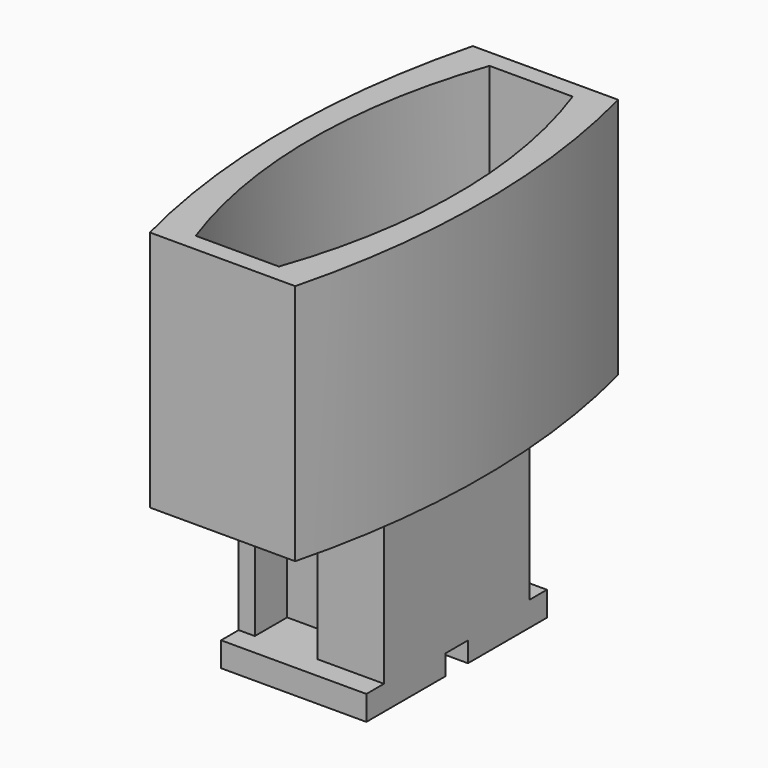
from build123d import *

# Parameters (mm, degrees)
PAD_DEPTH            = 30
POCKET_DEPTH         = 25
SKETCH004_W          = 18
SKETCH004_H          = 22.5
PAD001_DEPTH         = 19
SKETCH003_W          = 7.75
SKETCH003_H          = 11.25
POCKET002_DEPTH      = 5
POCKET002_DEPTH_BACK = 24
SKETCH005_W          = 18
SKETCH005_H          = 3.05
PAD002_DEPTH         = 2.73
PAD002_DEPTH_BACK    = 25.23
SKETCH006_W          = 3.5
SKETCH006_H          = 2.5
POCKET003_DEPTH      = 18
SKETCH002_R          = 4
POCKET001_DEPTH      = 35
POCKET001_DEPTH_BACK = 5


with BuildPart() as part:
    # Sketch → Pad (new body)
    with BuildSketch(Plane.XY):
        with BuildLine():
            Line((0, 0), (18, 0))
            ThreePointArc((18, 0), (21.175416, 25), (18, 50))
            Line((18, 50), (0, 50))
            ThreePointArc((0, 50), (-3.175416, 25), (0, 0))
        make_face()
    extrude(amount=-PAD_DEPTH)

    # Sketch001 → Pocket (cut)
    with BuildSketch(Plane.XY):
        with BuildLine():
            Line((3.9, 2.225), (14.2, 2.225))
            ThreePointArc((14.2, 2.225), (18.099995, 25.004308), (14.15, 47.775))
            Line((14.15, 47.775), (3.85, 47.775))
            ThreePointArc((3.85, 47.775), (-0.049995, 24.995692), (3.9, 2.225))
        make_face()
    extrude(amount=-POCKET_DEPTH, mode=Mode.SUBTRACT)

    # Sketch004 → Pad001 (join)
    with BuildSketch(Plane(origin=(0, 0, -30), x_dir=(1, 0, 0), z_dir=(0, 0, -1))):
        with Locations((9, -25)):
            Rectangle(SKETCH004_W, SKETCH004_H)
    extrude(amount=PAD001_DEPTH)

    # Sketch003 (on Face5 of Pocket001) → Pocket002 (cut, two sides)
    with BuildSketch(Plane(origin=(0, 0, -30), x_dir=(1, 0, 0), z_dir=(0, 0, -1))) as pocket002_sk:
        with Locations((5.875, -13.125)):
            Rectangle(SKETCH003_W, SKETCH003_H)
    extrude(amount=-POCKET002_DEPTH, mode=Mode.SUBTRACT)
    extrude(pocket002_sk.sketch, amount=POCKET002_DEPTH_BACK, mode=Mode.SUBTRACT)

    # Sketch005 (on Face11 of Pocket001) → Pad002 (join, two sides)
    with BuildSketch(Plane.XZ.offset(-13.75)) as pad002_sk:
        with Locations((9, -50.475)):
            Rectangle(SKETCH005_W, SKETCH005_H)
    extrude(amount=PAD002_DEPTH)
    extrude(pad002_sk.sketch, amount=-PAD002_DEPTH_BACK)

    # Sketch006 (on Face16 of Pocket001) → Pocket003 (cut)
    with BuildSketch(Plane.YZ.offset(18)):
        with Locations((25, -50.75)):
            Rectangle(SKETCH006_W, SKETCH006_H)
    extrude(amount=-POCKET003_DEPTH, mode=Mode.SUBTRACT)

    # Sketch002 (on Face11 of Pocket) → Pocket001 (cut, two sides)
    with BuildSketch(Plane.XY.offset(-25)) as pocket001_sk:
        with Locations((9.05, 25)):
            Circle(SKETCH002_R)
    extrude(amount=-POCKET001_DEPTH, mode=Mode.SUBTRACT)
    extrude(pocket001_sk.sketch, amount=POCKET001_DEPTH_BACK, mode=Mode.SUBTRACT)


solid = part.part
